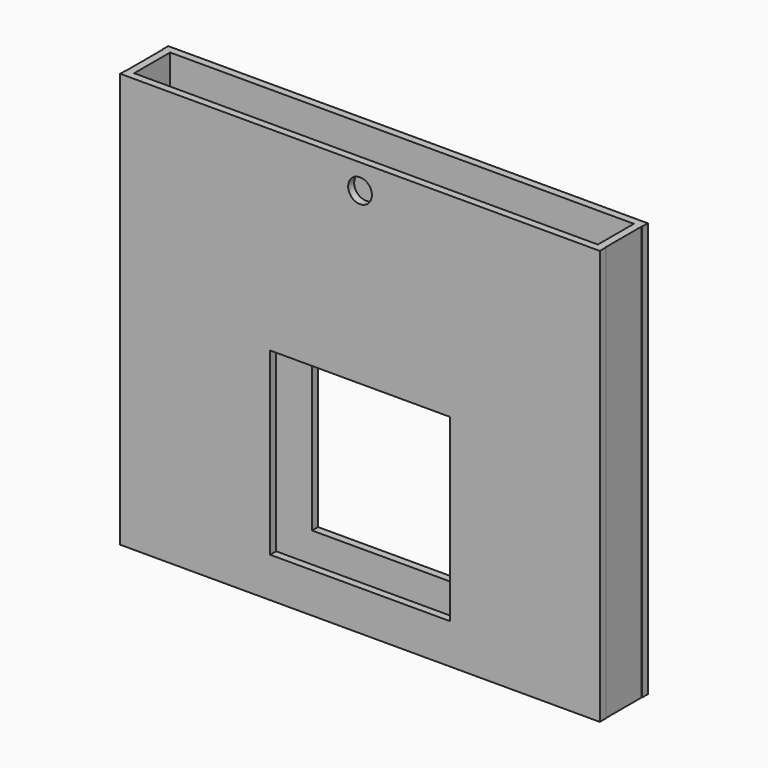
from build123d import *

# Parameters (mm, degrees)
F1_DEPTH = 1054.1
F3_DEPTH = 152.4
F4_W     = 1178.906798
F4_H     = 114.3
F5_DEPTH = 1270
F7_DEPTH = 25.4


with BuildPart() as f1:
    # F0 (on Top) → F1 (new body)
    with BuildSketch(Plane.XY):
        Polygon((609.6, 57.15), (609.6, 76.2), (-609.6, 76.2), (-609.6, 57.15), (-608.838, 57.15), (-608.838, -57.15), (-609.6, -57.15), (-609.6, -76.2), (609.6, -76.2), (609.6, -57.15), (608.838, -57.15), (608.838, 57.15), align=None)
    extrude(amount=F1_DEPTH)

    # F2 (on face) → F3 (cut)
    with BuildSketch(Plane.XZ.offset(76.2)):
        Polygon((-228.6, 101.6), (0, 101.6), (228.6, 101.6), (228.6, 558.8), (-228.6, 558.8), align=None)
    extrude(amount=-F3_DEPTH, mode=Mode.SUBTRACT)

    # F4 (on face) → F5 (cut)
    with BuildSketch(Plane.XY.offset(1054.1)):
        Rectangle(F4_W, F4_H)
    extrude(amount=-F5_DEPTH, mode=Mode.SUBTRACT)

    # F6 (on face) → F7 (cut)
    with BuildSketch(Plane.XZ.offset(76.2)):
        with BuildLine():
            ThreePointArc((0, 1020.7625), (-21.328108, 969.271892), (30.1625, 990.6))
            ThreePointArc((30.1625, 990.6), (21.328108, 1011.928108), (0, 1020.7625))
        make_face()
    extrude(amount=-F7_DEPTH, mode=Mode.SUBTRACT)


solid = f1.part
